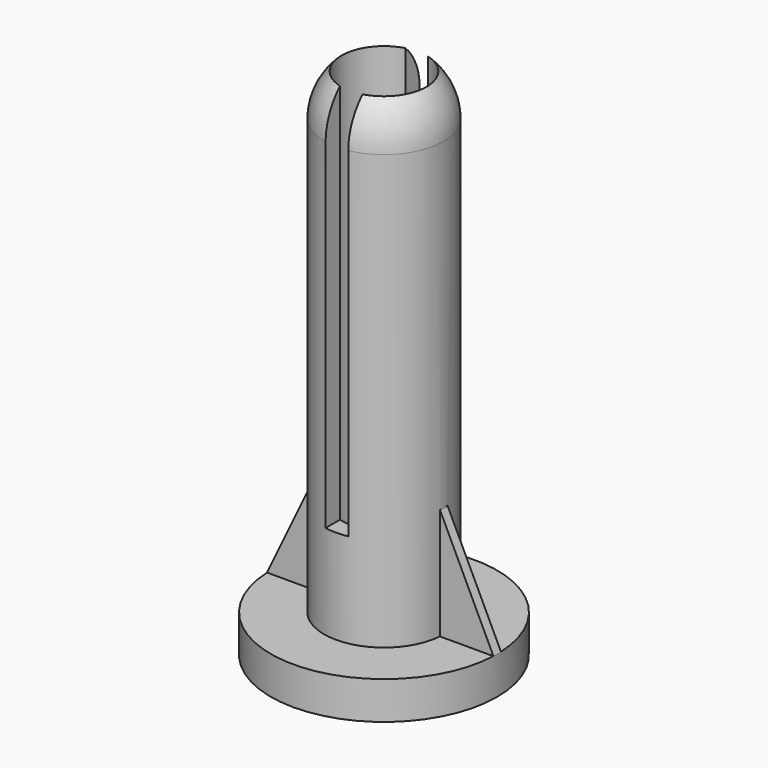
from build123d import *

# Parameters (mm, degrees)
SKETCH001_R     = 6
PAD_DEPTH       = 2
SKETCH_R        = 3.175
SKETCH_R_2      = 2.25
PAD001_DEPTH    = 25
PAD002_DEPTH    = 0.25
SKETCH005_W     = 1.2
SKETCH005_H     = 6.35
POCKET_DEPTH    = 21.176
SKETCH006_R     = 2.25
POCKET001_DEPTH = 28.118792


with BuildPart() as part:
    # Sketch001 → Pad (new body)
    with BuildSketch(Plane.XY):
        Circle(SKETCH001_R)
    extrude(amount=PAD_DEPTH)

    # Sketch → Pad001 (join)
    with BuildSketch(Plane.XY):
        Circle(SKETCH_R)
        Circle(SKETCH_R_2, mode=Mode.SUBTRACT)
    extrude(amount=PAD001_DEPTH)

    # Sketch002 → Pad002 (join, symmetric)
    with BuildSketch(Plane.XZ):
        Polygon((-6, 2), (0, 14.5), (6, 2), align=None)
    extrude(amount=PAD002_DEPTH, both=True)

    # Sketch004 → Revolution (revolve)
    with BuildSketch(Plane.XZ):
        with BuildLine():
            ThreePointArc((3.175, 25), (2.245064, 27.245064), (0, 28.175))
            Line((0, 25), (0, 28.175))
            Line((0, 25), (3.175, 25))
        make_face()
    revolve(axis=Axis((0, 0, 0), (0, 0, 1)))

    # Sketch005 → Pocket (cut, through all)
    with BuildSketch(Plane.XY.offset(7)):
        Rectangle(SKETCH005_W, SKETCH005_H)
    extrude(amount=POCKET_DEPTH, mode=Mode.SUBTRACT)

    # Sketch006 → Pocket001 (cut, through all)
    with BuildSketch(Plane.XY):
        Circle(SKETCH006_R)
    extrude(amount=POCKET001_DEPTH, mode=Mode.SUBTRACT)


solid = part.part
